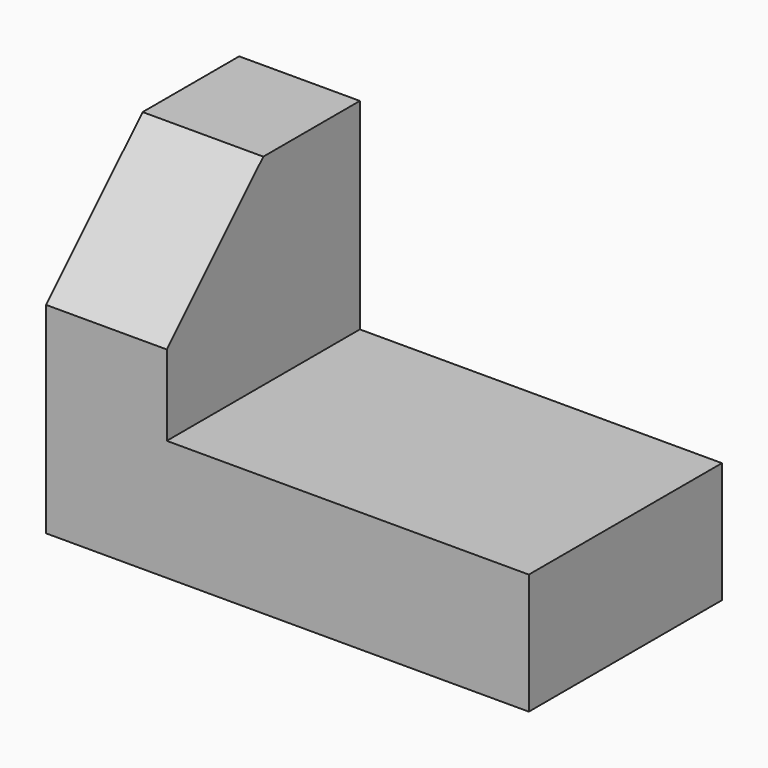
from build123d import *

# Parameters (mm, degrees)
F1_DEPTH = 76.2
F4_DEPTH = 38.101


with BuildPart() as f1:
    # F0 (on Front) → F1 (new body)
    with BuildSketch(Plane.XZ):
        Polygon((0, 101.6), (0, 0), (152.4, 0), (152.4, 38.1), (38.1, 38.1), (38.1, 101.6), align=None)
    extrude(amount=F1_DEPTH)

    # F2 (on face) → F4 (cut, through all)
    with BuildSketch(Plane.YZ.offset(38.1)):
        Polygon((-76.2, 63.5), (-38.1, 101.6), (-76.2, 101.6), align=None)
    extrude(amount=-F4_DEPTH, mode=Mode.SUBTRACT)


solid = f1.part
